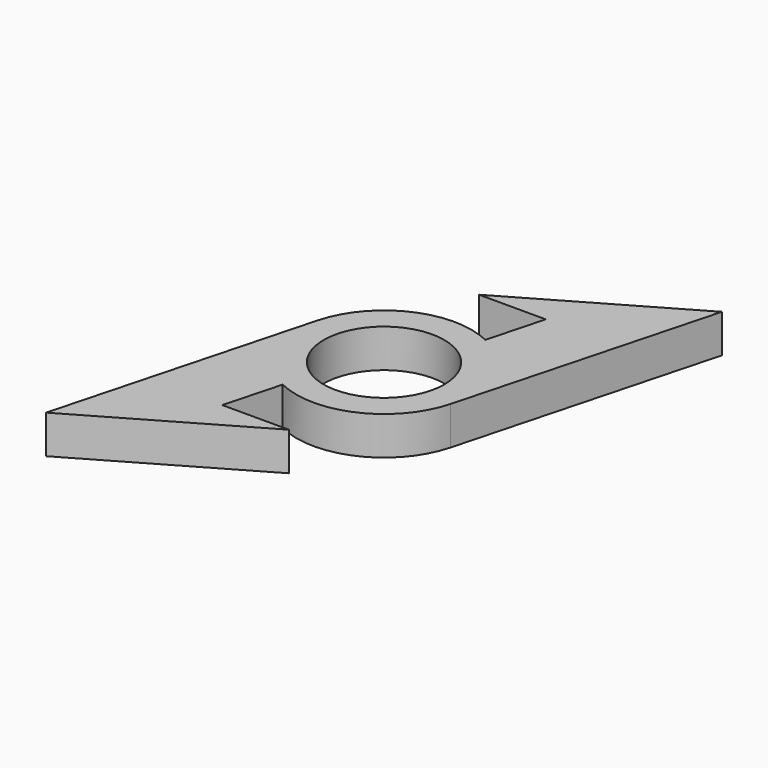
from build123d import *

# Parameters (mm, degrees)
F0_R     = 11
F1_DEPTH = 3.5


with BuildPart() as f1:
    # F0 (on Top) → F1 (new body, symmetric)
    with BuildSketch(Plane.XY):
        with BuildLine():
            ThreePointArc((15.454813, -4.141105), (15.863118, -2.088419), (16, 0))
            ThreePointArc((16, 0), (13.554464, 8.501558), (6.965438, 14.404259))
            ThreePointArc((6.965438, 14.404259), (-6.659614, 14.54818), (-15.454813, 4.141105))
            ThreePointArc((-15.454813, 4.141105), (-14.54818, -6.659614), (-6.965438, -14.404259))
            ThreePointArc((-6.965438, -14.404259), (6.659614, -14.54818), (15.454813, -4.141105))
        make_face()
        Circle(F0_R, mode=Mode.SUBTRACT)
        with BuildLine():
            ThreePointArc((6.965438, 14.404259), (13.554464, 8.501558), (16, 0))
            ThreePointArc((16, 0), (15.863118, -2.088419), (15.454813, -4.141105))
            Line((15.454813, -4.141105), (27.878127, 42.223335))
            Line((27.878127, 42.223335), (-2.432762, 24.723335))
            Line((-2.432762, 24.723335), (9.730426, 24.723335))
            Line((9.730426, 24.723335), (6.965438, 14.404259))
        make_face()
        with BuildLine():
            ThreePointArc((-6.965438, -14.404259), (-14.54818, -6.659614), (-15.454813, 4.141105))
            Line((-15.454813, 4.141105), (-27.878127, -42.223335))
            Line((-27.878127, -42.223335), (2.432762, -24.723335))
            Line((2.432762, -24.723335), (-9.730426, -24.723335))
            Line((-9.730426, -24.723335), (-6.965438, -14.404259))
        make_face()
    extrude(amount=F1_DEPTH, both=True)


solid = f1.part
